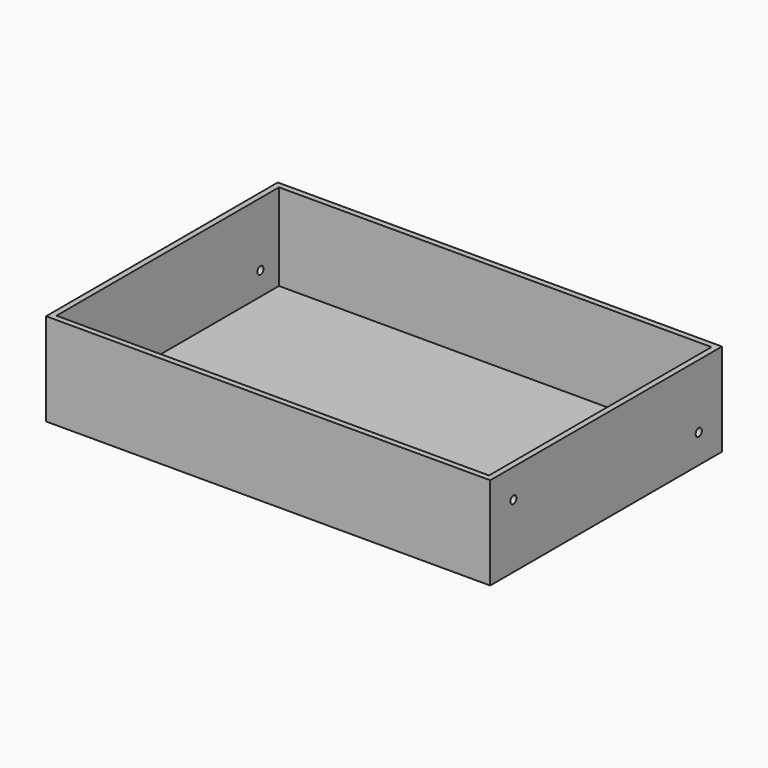
from build123d import *

# Parameters (mm, degrees)
F0_W     = 460
F0_H     = 300
F1_DEPTH = 6
F2_W     = 460
F2_H     = 300
F2_W_2   = 448
F2_H_2   = 288
F3_DEPTH = 90
F4_R     = 4
F5_DEPTH = 460


with BuildPart() as f1:
    # F0 (on Top) → F1 (new body)
    with BuildSketch(Plane.XY):
        Rectangle(F0_W, F0_H)
    extrude(amount=F1_DEPTH)

    # F2 (on face) → F3 (join)
    with BuildSketch(Plane.XY.offset(6)):
        Rectangle(F2_W, F2_H)
        Rectangle(F2_W_2, F2_H_2, mode=Mode.SUBTRACT)
    extrude(amount=F3_DEPTH)

    # F4 (on face) → F5 (cut, through all)
    with BuildSketch(Plane(origin=(-230, 0, 0), x_dir=(0, -1, 0), z_dir=(-1, 0, 0))):
        with Locations((-120, 30)):
            Circle(F4_R)
        with Locations((120, 66)):
            Circle(F4_R)
    extrude(amount=-F5_DEPTH, mode=Mode.SUBTRACT)


solid = f1.part
